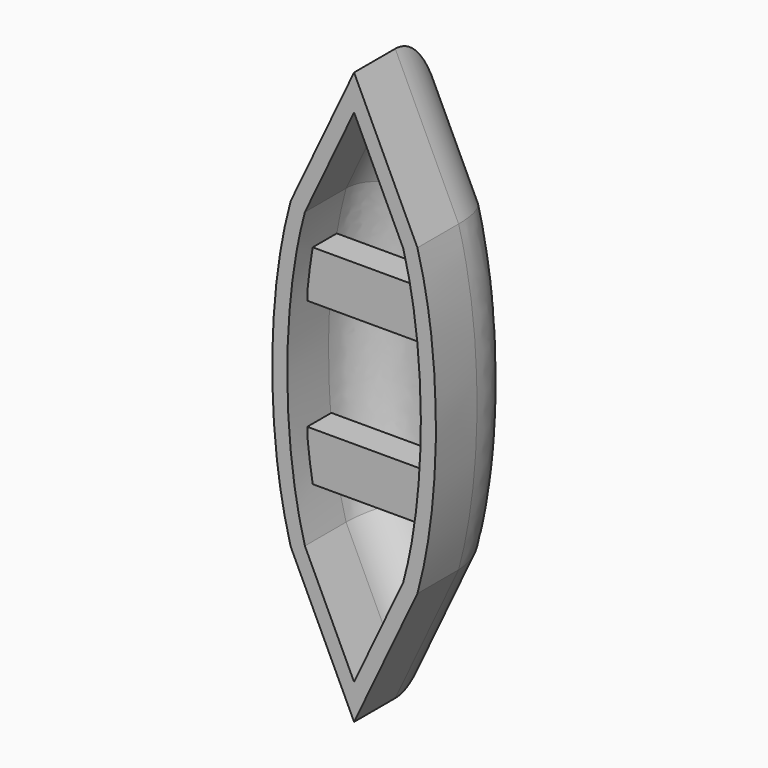
from build123d import *

# Parameters (mm, degrees)
F1_DEPTH  = 25.4
F2_R      = 11.176
F4_DEPTH  = 13.8058519448
F6_DEPTH  = 13.8058519448
F7_T      = -2.54
F10_DEPTH = 5.08


with BuildPart() as f1:
    # F0 (on Front) → F1 (new body)
    with BuildSketch(Plane.XZ):
        with BuildLine():
            Line((0, 48.2329800725), (-10.6875430456, 25.6805888784))
            add(Edge.make_bspline(
                [(-10.6875430456, 25.6805888784), (-17.8314074286, 0), (-10.6875430456, -25.6805888784)],
                knots=[0.8854303473, 0.8854303473, 0.8854303473, 2.2561623063, 2.2561623063, 2.2561623063], degree=2, weights=[1, 0.7741874499, 1]))
            Line((-10.6875430456, -25.6805888784), (0, -48.2329800725))
            Line((0, -48.2329800725), (10.6875430456, -25.6805888784))
            add(Edge.make_bspline(
                [(10.6875430456, -25.6805888784), (17.8314074286, 0), (10.6875430456, 25.6805888784)],
                knots=[4.0270230009, 4.0270230009, 4.0270230009, 5.3977549599, 5.3977549599, 5.3977549599], degree=2, weights=[1, 0.7741874499, 1]))
            Line((10.6875430456, 25.6805888784), (0, 48.2329800725))
        make_face()
    extrude(amount=F1_DEPTH)

    # F2
    f2_edges = [f1.edges().sort_by_distance(p)[0] for p in [
        (5.343772, 0, 36.956784),
        (-5.343772, 0, 36.956784),
        (-13.804852, 0, -1e-05),
        (-5.343772, 0, -36.956784),
        (5.343772, 0, -36.956784),
        (13.804852, 0, 1e-05),
    ]]
    fillet(f2_edges, radius=F2_R)

    # F3 (on Right) → F4 (cut, through all)
    with BuildSketch(Plane.YZ):
        Polygon((-19.8606383055, -48.8004274666), (-19.8606383055, 48.2329800725), (-19.8606383055, 52.772551775), (-34.0468101203, 52.772551775), (-34.0468101203, -48.8004274666), align=None)
    extrude(amount=-F4_DEPTH, mode=Mode.SUBTRACT)

    # F5 (on Right) → F6 (cut, through all)
    with BuildSketch(Plane.YZ):
        Polygon((-19.8606383055, -48.2329800725), (-19.8606383055, 48.2329800725), (-19.8606383055, 56.7446835339), (-37.4514907598, 56.7446835339), (-37.4514907598, -60.4330897331), (-19.8606383055, -60.4330897331), align=None)
    extrude(amount=F6_DEPTH, mode=Mode.SUBTRACT)

    # F7
    f7_openings = [f1.faces().sort_by_distance(p)[0] for p in [
        (0, -19.860638, 0),
    ]]
    offset(amount=F7_T, openings=f7_openings)

    # F9 (on offset) → F10 (join)
    with BuildSketch(Plane.XZ.offset(11.176)):
        with BuildLine():
            Line((-10.7814893126, 9.36287269), (0, 9.36287269))
            Line((0, 9.36287269), (10.7814893126, 9.36287269))
            ThreePointArc((10.7814893126, 9.36287269), (10.5416336893, 13.4960750336), (9.9303191528, 17.5908505917))
            Line((9.9303191528, 17.5908505917), (0, 17.5908505917))
            Line((0, 17.5908505917), (-9.9303191528, 17.5908505917))
            ThreePointArc((-9.9303191528, 17.5908505917), (-10.5416336893, 13.4960750336), (-10.7814893126, 9.36287269))
        make_face()
        with BuildLine():
            Line((10.7814893126, -9.36287269), (0, -9.36287269))
            Line((0, -9.36287269), (-10.7814893126, -9.36287269))
            ThreePointArc((-10.7814893126, -9.36287269), (-10.5416336893, -13.4960750336), (-9.9303191528, -17.5908505917))
            Line((-9.9303191528, -17.5908505917), (0, -17.5908505917))
            Line((0, -17.5908505917), (9.9303191528, -17.5908505917))
            ThreePointArc((9.9303191528, -17.5908505917), (10.5416336893, -13.4960750336), (10.7814893126, -9.36287269))
        make_face()
    extrude(amount=F10_DEPTH)


solid = f1.part
